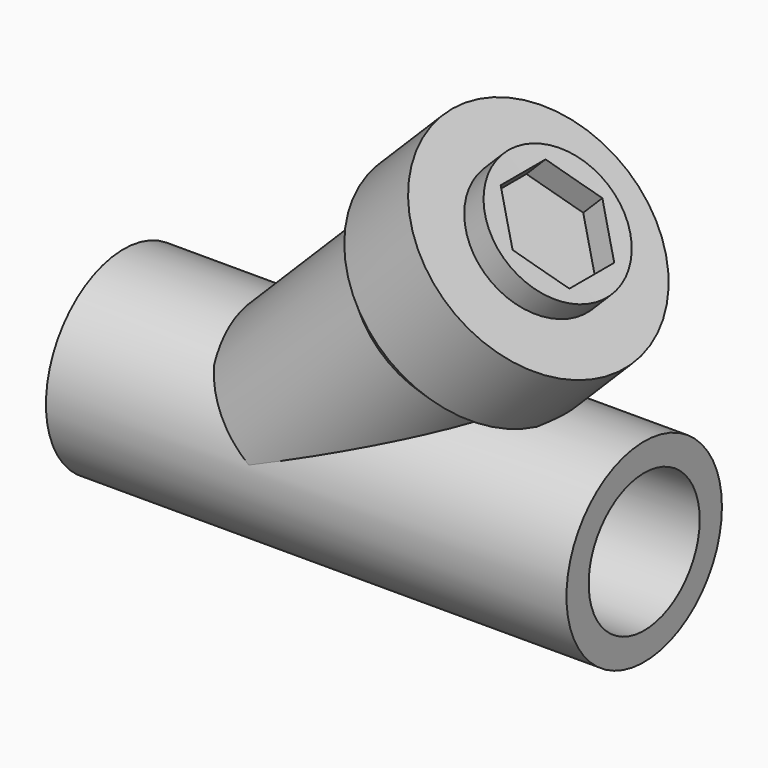
from build123d import *

# Parameters (mm, degrees)
F0_W     = 75
F0_H     = 4
F5_DEPTH = 25


with BuildPart() as f1:
    # F0 (on Top) → F1 (revolve)
    with BuildSketch(Plane.XY):
        with Locations((12.5, 12)):
            Rectangle(F0_W, F0_H)
    revolve(axis=Axis((-0.954778, 0, 0), (1, 0, 0)))

    # F2 (on Front) → F3 (revolve)
    with BuildSketch(Plane.XZ):
        Polygon((-6.970563, 12.828427), (-4.142136, 10), (21.389404, 35.53154), (28.460472, 28.460472), (37.413038, 37.413038), (30.45914, 44.601276), (27.67767, 41.819805), (22.316322, 47.181152), (13.123934, 37.988764), (12.828427, 32.627416), align=None)
    revolve(axis=Axis((18.706519, 0, 18.706519), (0.707107, 0, 0.707107)))

    # F4 (on face) → F5 (cut)
    with BuildSketch(Plane(origin=(34.748737, 0, 34.748737), x_dir=(0.707107, 0, -0.707107), z_dir=(0.707107, 0, 0.707107))):
        Polygon((7, -4.041452), (7, 4.041452), (0, 8.082904), (-7, 4.041452), (-7, -4.041452), (0, -8.082904), align=None)
    extrude(amount=F5_DEPTH, mode=Mode.SUBTRACT)


solid = f1.part
